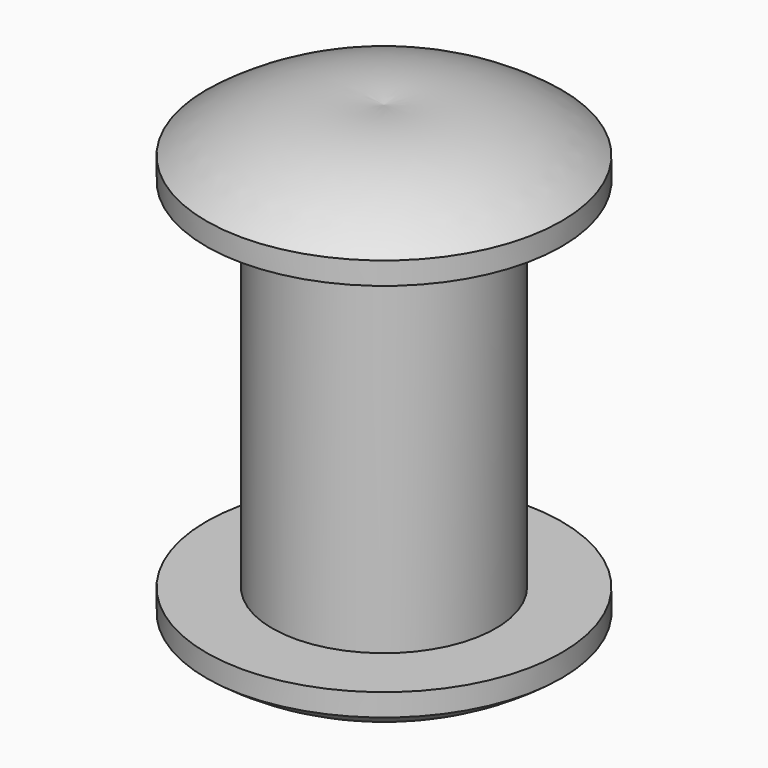
from build123d import *


with BuildPart() as f1:
    # F0 (on Front) → F1 (revolve)
    with BuildSketch(Plane.XZ):
        with BuildLine():
            Line((-2.5, 0), (0, 0))
            Line((0, 0), (0, 5.499265))
            ThreePointArc((0, 5.499265), (-2.090062, 5.409453), (-3.974026, 4.5))
            Line((-3.974026, 4.5), (-3.974026, 4))
            Line((-3.974026, 4), (-2.5, 4))
            Line((-2.5, 4), (-2.5, 0))
        make_face()
    revolve(axis=Axis((0, 0, 2.749633), (0, 0, 1)))

    # F2: F1 across face


with BuildPart() as f1_1:
    add(f1.part)
    add(f1.part.mirror(Plane(origin=(0, 0, 0), x_dir=(1, 0, 0), z_dir=(0, 0, -1))))


solid = f1_1.part
